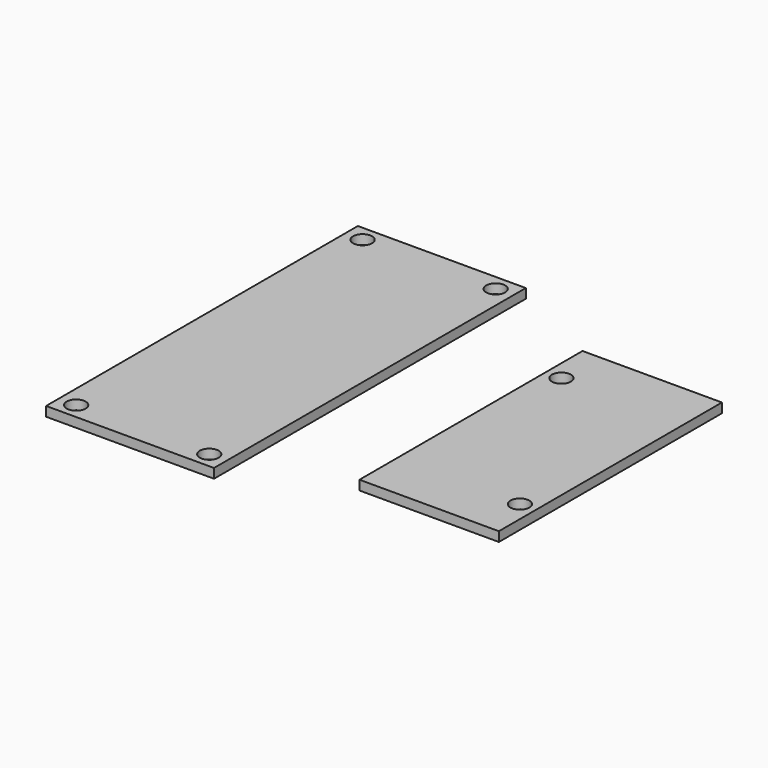
from build123d import *

# Parameters (mm, degrees)
F0_W     = 26.5
F0_H     = 61.5
F0_R     = 1.5
F1_DEPTH = 1.5
F2_W     = 22
F2_H     = 44
F2_R     = 1.5
F3_DEPTH = 1.5


with BuildPart() as f1:
    # F0 (on Top) → F1 (new body)
    with BuildSketch(Plane.XY):
        Rectangle(F0_W, F0_H)
        with Locations((-10.5, -28.25)):
            Circle(F0_R, mode=Mode.SUBTRACT)
        with Locations((10.5, -28.25)):
            Circle(F0_R, mode=Mode.SUBTRACT)
        with Locations((-10.5, 28.25)):
            Circle(F0_R, mode=Mode.SUBTRACT)
        with Locations((10.5, 28.25)):
            Circle(F0_R, mode=Mode.SUBTRACT)
    extrude(amount=F1_DEPTH)


with BuildPart() as f3:
    # F2 (on Top) → F3 (new body)
    with BuildSketch(Plane.XY):
        with Locations((40.206755, 0)):
            Rectangle(F2_W, F2_H)
        with Locations((48.706755, -14.722432)):
            Circle(F2_R, mode=Mode.SUBTRACT)
        with Locations((31.706755, 14.722432)):
            Circle(F2_R, mode=Mode.SUBTRACT)
    extrude(amount=F3_DEPTH)


solid = Compound([f1.part, f3.part])
